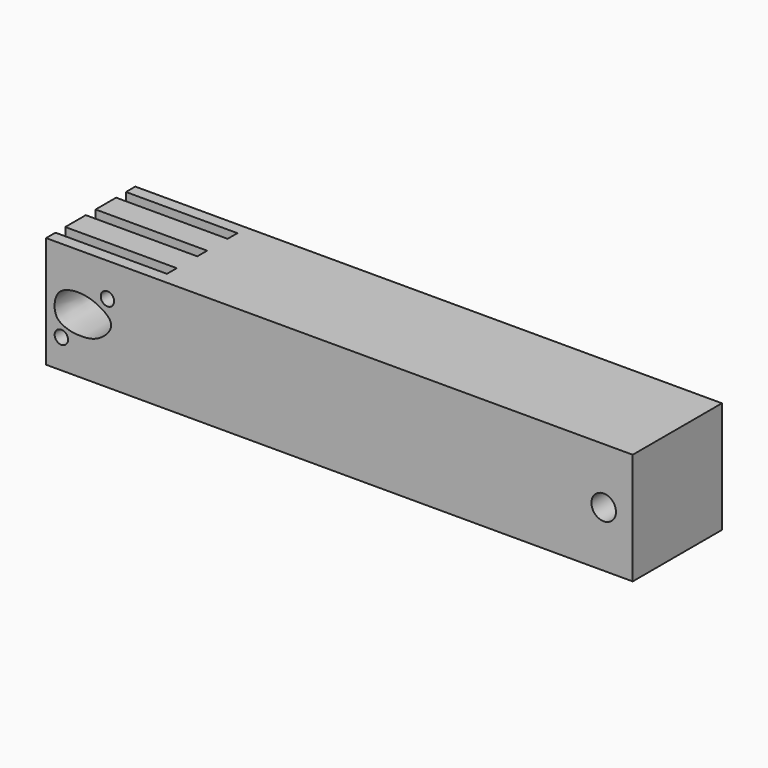
from build123d import *

# Parameters (mm, degrees)
F0_R     = 1.524
F0_R_2   = 2.794
F1_DEPTH = 12.7
F2_DEPTH = 12.7010001
F4_DEPTH = 12.7
F5_DEPTH = 25.4


with BuildPart() as f1:
    # F0 (on Front) → F1 (new body, symmetric)
    with BuildSketch(Plane.XZ):
        Polygon((6.604, 12.7), (0, 12.7), (-127, 12.7), (-127, 0), (-127, -12.7), (0, -12.7), (6.604, -12.7), (6.604, 0), align=None)
        with Locations((-123.518936336, -6.0549625196)):
            Circle(F0_R, mode=Mode.SUBTRACT)
        Circle(F0_R_2, mode=Mode.SUBTRACT)
        with BuildLine():
            add(Edge.make_bspline(
                [(-125.0539798534, 0), (-125.0029516502, 1.0942387987), (-124.2855618498, 3.6077570352), (-119.1629399597, 4.6185731199), (-114.5907916971, 3.1303982734), (-110.8964815907, 0.069246784), (-114.9696975278, -4.0951978821), (-118.8006178953, -4.4511181723), (-121.3570598791, -4.3089217473), (-124.7050062892, -3.0354361639), (-125.1014997164, -1.0190066384), (-125.0539798534, 0)],
                knots=[0, 0, 0, 0, 0.1042218998, 0.2287510894, 0.3589019071, 0.4687869993, 0.5924471234, 0.7059785464, 0.7992375371, 0.9029436647, 1, 1, 1, 1], degree=3))
        make_face(mode=Mode.SUBTRACT)
        with Locations((-113.0270063877, 5.0530396402)):
            Circle(F0_R, mode=Mode.SUBTRACT)
    extrude(amount=F1_DEPTH, both=True)

    # F0 (on Front) → F2 (cut, through all)
    with BuildSketch(Plane.XZ):
        with BuildLine():
            add(Edge.make_bspline(
                [(-125.0539798534, 0), (-125.0029516502, 1.0942387987), (-124.2855618498, 3.6077570352), (-119.1629399597, 4.6185731199), (-114.5907916971, 3.1303982734), (-110.8964815907, 0.069246784), (-114.9696975278, -4.0951978821), (-118.8006178953, -4.4511181723), (-121.3570598791, -4.3089217473), (-124.7050062892, -3.0354361639), (-125.1014997164, -1.0190066384), (-125.0539798534, 0)],
                knots=[0, 0, 0, 0, 0.1042218998, 0.2287510894, 0.3589019071, 0.4687869993, 0.5924471234, 0.7059785464, 0.7992375371, 0.9029436647, 1, 1, 1, 1], degree=3))
        make_face()
    extrude(amount=-F2_DEPTH, mode=Mode.SUBTRACT)

    # F3 (on face) → F4 (cut)
    with BuildSketch(Plane(origin=(-127, 0, 0), x_dir=(0, -1, 0), z_dir=(-1, 0, 0))):
        Polygon((-8.636, -12.7), (-7.239, -12.7), (-7.239, -10.16), (-6.096, -10.16), (-6.096, -8.128), (-8.636, -8.128), (-11.176, -8.128), (-11.176, -10.16), (-10.033, -10.16), (-10.033, -12.7), align=None)
        Polygon((-1.397, -10.16), (-1.397, -12.7), (0, -12.7), (1.397, -12.7), (1.397, -10.16), (2.54, -10.16), (2.54, -8.128), (0, -8.128), (-2.54, -8.128), (-2.54, -10.16), align=None)
        Polygon((7.239, -10.16), (7.239, -12.7), (8.636, -12.7), (10.033, -12.7), (10.033, -10.16), (11.176, -10.16), (11.176, -8.128), (8.636, -8.128), (6.096, -8.128), (6.096, -10.16), align=None)
    extrude(amount=-F4_DEPTH, mode=Mode.SUBTRACT)

    # F3 (on face) → F5 (cut)
    with BuildSketch(Plane(origin=(-127, 0, 0), x_dir=(0, -1, 0), z_dir=(-1, 0, 0))):
        Polygon((-8.636, 12.7), (-10.033, 12.7), (-10.033, 10.16), (-11.176, 10.16), (-11.176, 8.128), (-8.636, 8.128), (-6.096, 8.128), (-6.096, 10.16), (-7.239, 10.16), (-7.239, 12.7), align=None)
        Polygon((0, 12.7), (-1.397, 12.7), (-1.397, 10.16), (-2.54, 10.16), (-2.54, 8.128), (0, 8.128), (2.54, 8.128), (2.54, 10.16), (1.397, 10.16), (1.397, 12.7), align=None)
        Polygon((10.033, 10.16), (10.033, 12.7), (8.636, 12.7), (7.239, 12.7), (7.239, 10.16), (6.096, 10.16), (6.096, 8.128), (8.636, 8.128), (11.176, 8.128), (11.176, 10.16), align=None)
    extrude(amount=-F5_DEPTH, mode=Mode.SUBTRACT)


solid = f1.part
